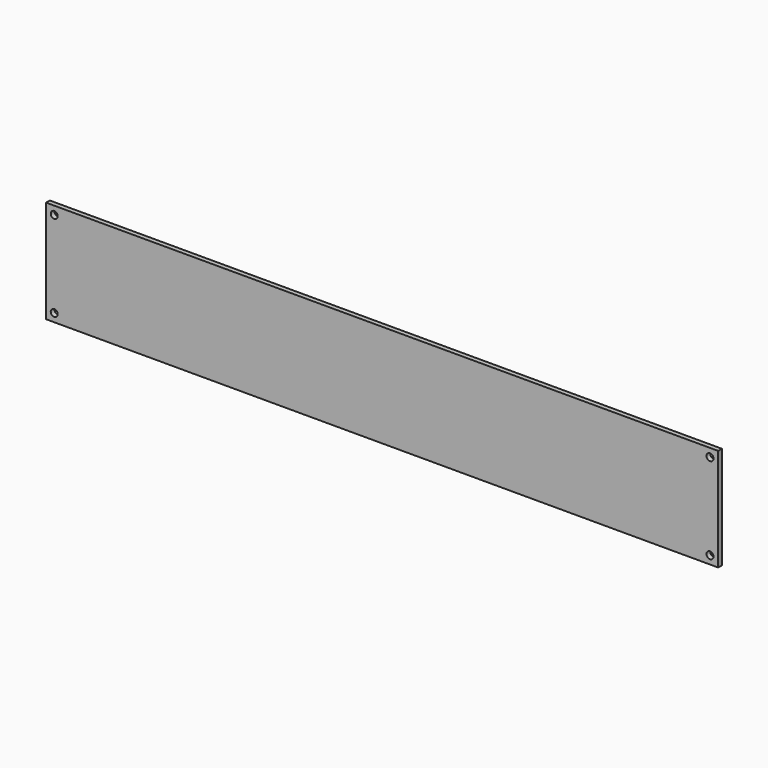
from build123d import *

# Parameters (mm, degrees)
F0_W     = 3.175
F0_H     = 69.85
F1_DEPTH = 457.2
F2_R     = 2.38125
F3_DEPTH = 3.176


with BuildPart() as f1:
    # F0 (on Right) → F1 (new body)
    with BuildSketch(Plane.YZ):
        with Locations((1.5875, 34.925)):
            Rectangle(F0_W, F0_H)
    extrude(amount=F1_DEPTH)

    # F2 (on face) → F3 (cut, through all)
    with BuildSketch(Plane(origin=(0, 3.175, 0), x_dir=(-1, 0, 0), z_dir=(0, 1, 0))):
        with Locations((-5.55625, 64.29375)):
            Circle(F2_R)
        with Locations((-5.55625, 5.55625)):
            Circle(F2_R)
        with Locations((-451.64375, 64.29375)):
            Circle(F2_R)
        with Locations((-451.64375, 5.55625)):
            Circle(F2_R)
    extrude(amount=-F3_DEPTH, mode=Mode.SUBTRACT)


solid = f1.part
